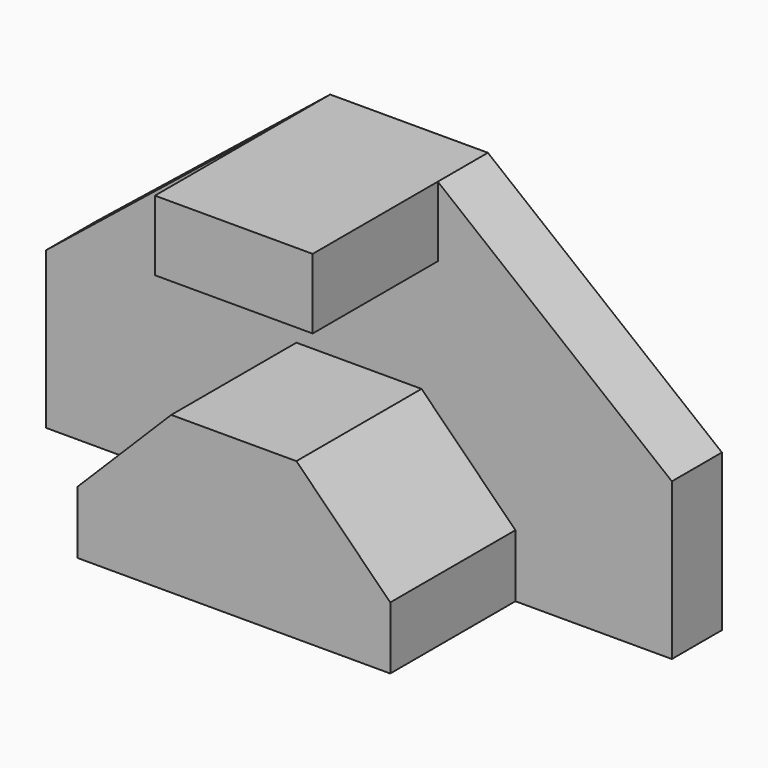
from build123d import *

# Parameters (mm, degrees)
F0_W     = 127
F0_H     = 69.85
F1_DEPTH = 44.45
F3_DEPTH = 44.45
F5_DEPTH = 31.75


with BuildPart() as f1:
    # F0 (on Front) → F1 (new body)
    with BuildSketch(Plane.XZ):
        with Locations((1.307353, 14.007352)):
            Rectangle(F0_W, F0_H)
    extrude(amount=F1_DEPTH)

    # F2 (on face) → F3 (cut)
    with BuildSketch(Plane.XZ.offset(44.45)):
        Polygon((17.309353, 48.932352), (64.807353, 10.832352), (64.807353, 48.932352), align=None)
        Polygon((-62.192647, 48.932352), (-62.192647, 10.832352), (-14.694647, 48.932352), align=None)
    extrude(amount=-F3_DEPTH, mode=Mode.SUBTRACT)

    # F4 (on face) → F5 (cut)
    with BuildSketch(Plane.XZ.offset(44.45)):
        Polygon((64.807353, 10.832352), (17.309353, 48.932352), (17.309353, 34.708352), (-14.694647, 34.708352), (-14.694647, 48.932352), (-62.192647, 10.832352), (-62.192647, -20.917648), (-30.442647, -20.917648), (-30.442647, -8.217648), (-11.392647, 10.832352), (14.007353, 10.832352), (33.057353, -8.217648), (33.057353, -20.917648), (64.807353, -20.917648), align=None)
    extrude(amount=-F5_DEPTH, mode=Mode.SUBTRACT)


solid = f1.part
